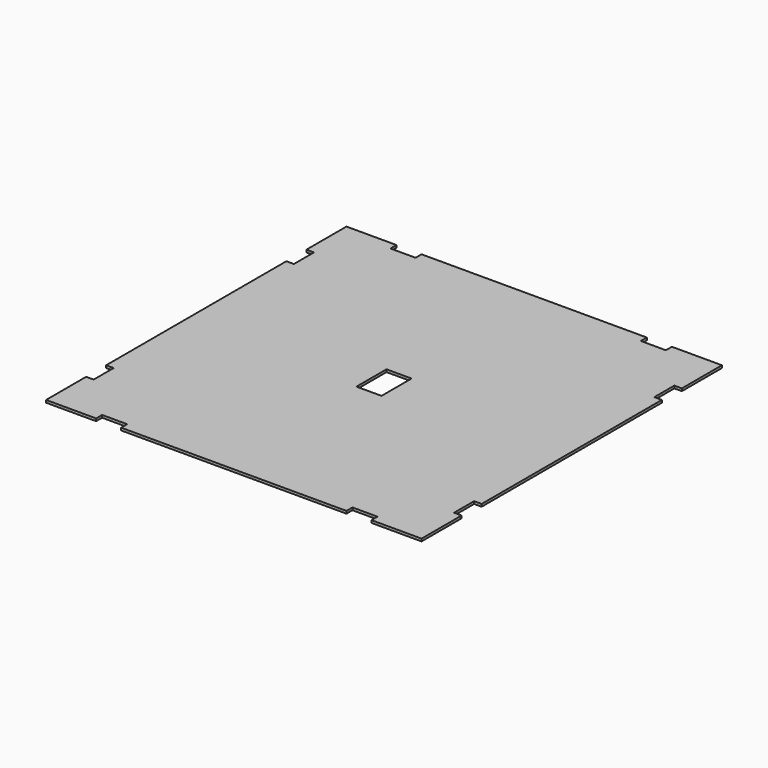
from build123d import *

# Parameters (mm, degrees)
F0_W     = 254
F0_H     = 381
F1_DEPTH = 25.4


with BuildPart() as f1:
    # F0 (on Top) → F1 (new body)
    with BuildSketch(Plane.XY):
        Polygon((1905, 1397), (1905, 1905), (1397, 1905), (1397, 1828.8), (1143, 1828.8), (1143, 1905), (-1143, 1905), (-1143, 1828.8), (-1397, 1828.8), (-1397, 1905), (-1905, 1905), (-1905, 1397), (-1828.8, 1397), (-1828.8, 1143), (-1905, 1143), (-1905, -1143), (-1828.8, -1143), (-1828.8, -1397), (-1905, -1397), (-1905, -1905), (-1397, -1905), (-1397, -1828.8), (-1143, -1828.8), (-1143, -1905), (1143, -1905), (1143, -1828.8), (1397, -1828.8), (1397, -1905), (1905, -1905), (1905, -1397), (1828.8, -1397), (1828.8, -1143), (1905, -1143), (1905, 1143), (1828.8, 1143), (1828.8, 1397), align=None)
        Rectangle(F0_W, F0_H, mode=Mode.SUBTRACT)
    extrude(amount=F1_DEPTH)


solid = f1.part
